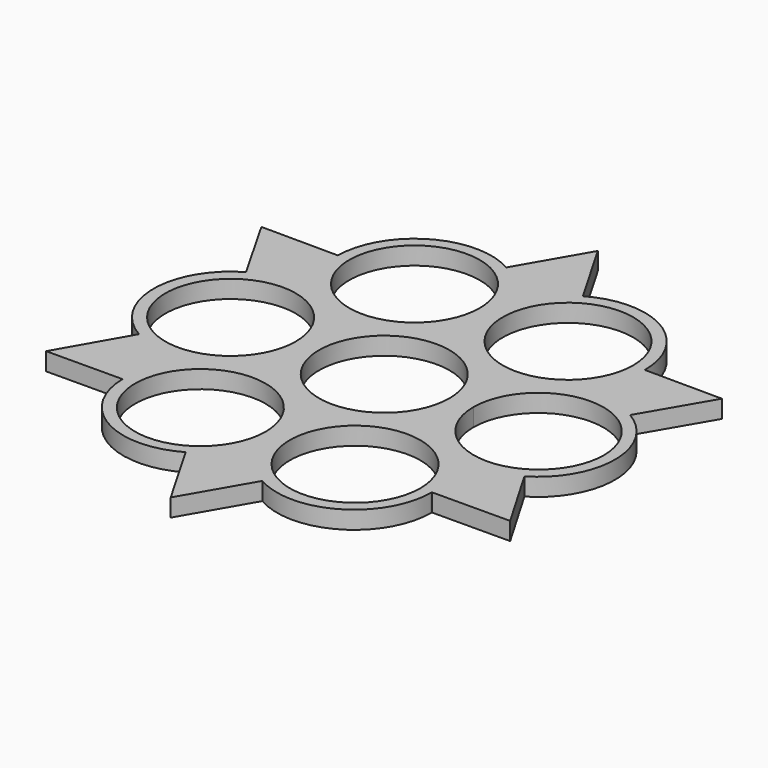
from build123d import *

# Parameters (mm, degrees)
F0_R     = 11
F1_DEPTH = 3


with BuildPart() as f1:
    # F0 (on Top) → F1 (new body)
    with BuildSketch(Plane.XY):
        with BuildLine():
            Line((6.5263687893, 33.695997668), (0, 45.0000000001))
            Line((0, 45.0000000001), (-6.4724619093, 33.7893671232))
            ThreePointArc((-6.4724619093, 33.7893671232), (-19.3913386593, 33.7739140277), (-25.9178065759, 22.6247960441))
            Line((-25.9178065759, 22.6247960441), (-38.8625809576, 22.6869963042))
            Line((-38.8625809576, 22.6869963042), (-32.390603154, 11.351765314))
            ThreePointArc((-32.390603154, 11.351765314), (-38.9447368629, 0.0935651216), (-32.4447743811, -11.195997668))
            Line((-32.4447743811, -11.195997668), (-32.3368491411, -11.2576187994))
            Line((-32.3368491411, -11.2576187994), (-38.8625809576, -22.6869963042))
            Line((-38.8625809576, -22.6869963042), (-26.025014481, -22.6253111832))
            ThreePointArc((-26.025014481, -22.6253111832), (-19.444945249, -33.7426166108), (-6.5263687894, -33.6959976681))
            Line((-6.5263687894, -33.6959976681), (0, -45.0000000001))
            Line((0, -45.0000000001), (6.4724619092, -33.7893671233))
            ThreePointArc((6.4724619092, -33.7893671233), (19.445377789, -33.742714705), (25.9184055917, -22.5000000001))
            Line((25.9184055917, -22.5000000001), (25.9184055917, -22.3757205654))
            Line((25.9184055917, -22.3757205654), (39.0788056139, -22.3124842138))
            Line((39.0788056139, -22.3124842138), (32.6066014938, -11.2256680828))
            ThreePointArc((32.6066014938, -11.2256680828), (38.9447363963, -0.0309064519), (32.5525514177, 11.133080883))
            Line((32.5525514177, 11.133080883), (39.0788056139, 22.3124842138))
            Line((39.0788056139, 22.3124842138), (26.0262187168, 22.3752025182))
            ThreePointArc((26.0262187168, 22.3752025182), (19.5533982037, 33.6803489061), (6.5263687893, 33.695997668))
        make_face()
        with Locations((-12.9542933494, -22.562505743)):
            Circle(F0_R, mode=Mode.SUBTRACT)
        with Locations((13.0263687893, -22.4376674188)):
            Circle(F0_R, mode=Mode.SUBTRACT)
        with BuildLine():
            ThreePointArc((-36.9091848919, 0), (-25.9091848919, 11), (-14.9091848919, 0))
            ThreePointArc((-14.9091848919, 0), (-25.9091848919, -11), (-36.9091848919, 0))
        make_face(mode=Mode.SUBTRACT)
        with BuildLine():
            ThreePointArc((-11, 0), (0, 11), (11, 0))
            ThreePointArc((11, 0), (0, -11), (-11, 0))
        make_face(mode=Mode.SUBTRACT)
        with Locations((-12.9542933494, 22.562505743)):
            Circle(F0_R, mode=Mode.SUBTRACT)
        with Locations((13.0263687893, 22.4376674188)):
            Circle(F0_R, mode=Mode.SUBTRACT)
        with BuildLine():
            ThreePointArc((15.017027412, 0), (26.0168498212, 10.9374942569), (37.0166722303, 0))
            ThreePointArc((37.0166722303, 0), (26.0168498212, -10.9374942569), (15.017027412, 0))
        make_face(mode=Mode.SUBTRACT)
    extrude(amount=F1_DEPTH)


solid = f1.part
